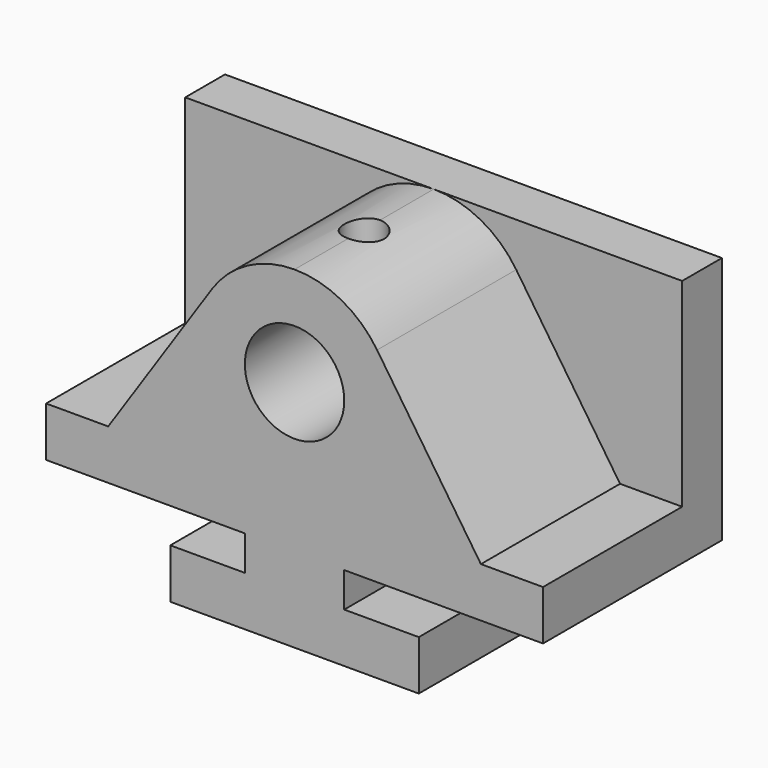
from build123d import *

# Parameters (mm, degrees)
F0_R     = 12.7
F1_DEPTH = 57.15
F2_DEPTH = 44.45
F3_R     = 5.08
F4_DEPTH = 13.7612578348


with BuildPart() as f1:
    # F0 (on Front) → F1 (new body)
    with BuildSketch(Plane.XZ):
        with BuildLine():
            Line((-31.75, -8.89), (-31.75, -21.59))
            Line((-31.75, -21.59), (31.75, -21.59))
            Line((31.75, -21.59), (31.75, -8.89))
            Line((31.75, -8.89), (12.7, -8.89))
            Line((12.7, -8.89), (12.7, 0))
            Line((12.7, 0), (63.5, 0))
            Line((63.5, 0), (63.5, 12.7))
            Line((63.5, 12.7), (47.625, 12.7))
            Line((47.625, 12.7), (21.0934256055, 52.2501730104))
            ThreePointArc((21.0934256055, 52.2501730104), (11.9529411765, 60.5117647059), (0, 63.5))
            ThreePointArc((0, 63.5), (-11.9529411765, 60.5117647059), (-21.0934256055, 52.2501730104))
            Line((-21.0934256055, 52.2501730104), (-47.625, 12.7))
            Line((-47.625, 12.7), (-63.5, 12.7))
            Line((-63.5, 12.7), (-63.5, 0))
            Line((-63.5, 0), (-12.7, 0))
            Line((-12.7, 0), (-12.7, -8.89))
            Line((-12.7, -8.89), (-31.75, -8.89))
        make_face()
        with Locations((0, 38.1)):
            Circle(F0_R, mode=Mode.SUBTRACT)
        with BuildLine():
            Line((-63.5, 63.5), (-63.5, 12.7))
            Line((-63.5, 12.7), (-47.625, 12.7))
            Line((-47.625, 12.7), (-21.0934256055, 52.2501730104))
            ThreePointArc((-21.0934256055, 52.2501730104), (-11.9529411765, 60.5117647059), (0, 63.5))
            Line((0, 63.5), (-63.5, 63.5))
        make_face()
        with BuildLine():
            Line((47.625, 12.7), (63.5, 12.7))
            Line((63.5, 12.7), (63.5, 63.5))
            Line((63.5, 63.5), (0, 63.5))
            ThreePointArc((0, 63.5), (11.9529411765, 60.5117647059), (21.0934256055, 52.2501730104))
            Line((21.0934256055, 52.2501730104), (47.625, 12.7))
        make_face()
    extrude(amount=-F1_DEPTH)

    # F0 (on Front) → F2 (cut)
    with BuildSketch(Plane.XZ):
        with BuildLine():
            Line((-63.5, 63.5), (-63.5, 12.7))
            Line((-63.5, 12.7), (-47.625, 12.7))
            Line((-47.625, 12.7), (-21.0934256055, 52.2501730104))
            ThreePointArc((-21.0934256055, 52.2501730104), (-11.9529411765, 60.5117647059), (0, 63.5))
            Line((0, 63.5), (-63.5, 63.5))
        make_face()
        with BuildLine():
            Line((47.625, 12.7), (63.5, 12.7))
            Line((63.5, 12.7), (63.5, 63.5))
            Line((63.5, 63.5), (0, 63.5))
            ThreePointArc((0, 63.5), (11.9529411765, 60.5117647059), (21.0934256055, 52.2501730104))
            Line((21.0934256055, 52.2501730104), (47.625, 12.7))
        make_face()
    extrude(amount=-F2_DEPTH, mode=Mode.SUBTRACT)

    # F3 (on face) → F4 (cut, through all)
    with BuildSketch(Plane.XY.offset(63.5)):
        with Locations((0, 22.225)):
            Circle(F3_R)
    extrude(amount=-F4_DEPTH, mode=Mode.SUBTRACT)


solid = f1.part
